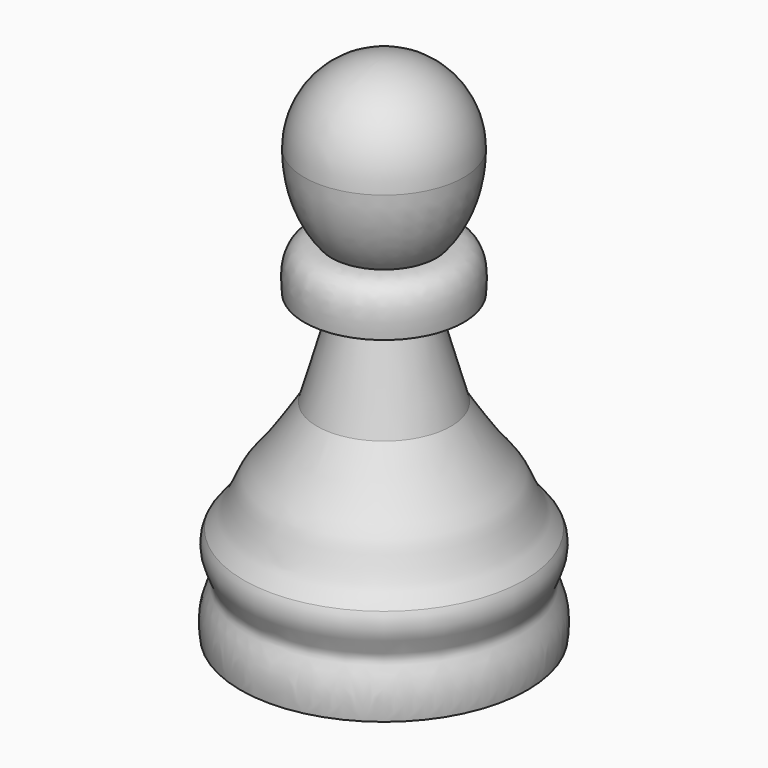
from build123d import *


with BuildPart() as f1:
    # F0 (on Right) → F1 (revolve)
    with BuildSketch(Plane.YZ):
        with BuildLine():
            Line((-9, 0), (0, 0))
            Line((0, 0), (0, 32))
            ThreePointArc((0, 32), (-3.5355339059, 30.5355339059), (-5, 27))
            add(Edge.make_bspline(
                [(-5, 27), (-5, 23.9848744073), (-3.291528572, 22)],
                knots=[4.7123889804, 4.7123889804, 4.7123889804, 5.5646195603, 5.5646195603, 5.5646195603], degree=2, weights=[1, 0.9105783092, 1]))
            add(Edge.make_bspline(
                [(-5, 19), (-5.0397762097, 19.7896603495), (-5.3758970462, 21.9526141882), (-3.291528572, 22)],
                knots=[0, 0, 0, 0, 3.4523723177, 3.4523723177, 3.4523723177, 3.4523723177], degree=3))
            Line((-5, 19), (-2.5, 19))
            Line((-2.5, 19), (-4.2, 13))
            add(Edge.make_bspline(
                [(-4.2, 13), (-5.0580437535, 11.6353517708), (-5.3875620506, 11.1889692915), (-6.0393068781, 10.1593006312), (-7.0845174038, 9.0257541439), (-7.4661100887, 8.0139899234), (-8.0908116748, 6.7631948147), (-8.1913455623, 6.8028341866), (-8.8, 6)],
                knots=[0, 0, 0, 0, 0.2202039012, 0.3614493564, 0.5372050951, 0.6910866785, 0.8386541111, 1, 1, 1, 1], degree=3))
            add(Edge.make_bspline(
                [(-8.8, 6), (-8.9974841103, 5.6615136564), (-9.0924750378, 4.7342409282), (-8.5296331344, 3.7297193197), (-8.3430096816, 2.7865365777), (-9.2626395207, 1.9199048167), (-9, 0)],
                knots=[0, 0, 0, 0, 0.2341385243, 0.4582608642, 0.6339476614, 1, 1, 1, 1], degree=3))
        make_face()
    revolve(axis=Axis((0, 0, 16), (0, 0, 1)))


solid = f1.part
